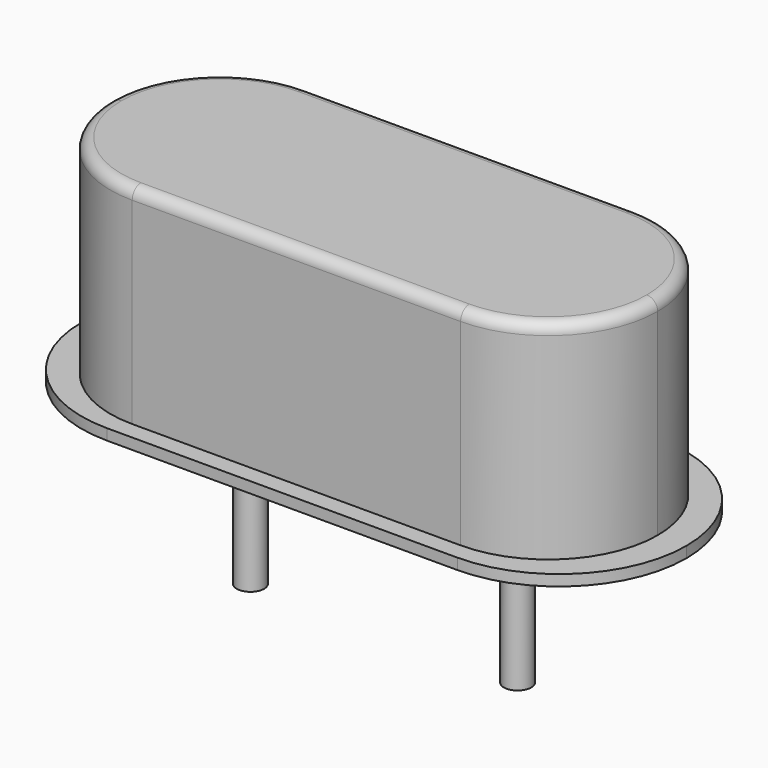
from build123d import *

# Parameters (mm, degrees)
SKETCH_R     = 0.25
PAD_DEPTH    = 3
PAD001_DEPTH = 0.2
PAD002_DEPTH = 4
FILLET_R     = 0.2


with BuildPart() as pad:
    # Sketch → Pad (new body)
    with BuildSketch(Plane.XY.offset(0.1)):
        Circle(SKETCH_R)
        with Locations((4.88, 0)):
            Circle(SKETCH_R)
    extrude(amount=-PAD_DEPTH)


with BuildPart() as pad001:
    # Sketch001 → Pad001 (new body)
    with BuildSketch(Plane.XY.offset(0.1)):
        with BuildLine():
            Line((-0.76, 2.325), (5.64, 2.325))
            ThreePointArc((7.965, 0), (7.284023, 1.644023), (5.64, 2.325))
            ThreePointArc((5.64, -2.325), (7.284023, -1.644023), (7.965, 0))
            Line((5.64, -2.325), (-0.76, -2.325))
            ThreePointArc((-3.085, 0), (-2.404023, -1.644023), (-0.76, -2.325))
            ThreePointArc((-0.76, 2.325), (-2.404023, 1.644023), (-3.085, 0))
        make_face()
    extrude(amount=PAD001_DEPTH)


with BuildPart() as fillet_body:
    # Sketch003 → Pad002 (new body)
    with BuildSketch(Plane.XY.offset(0.1)):
        with BuildLine():
            Line((-0.56, 2), (5.44, 2))
            ThreePointArc((7.44, 0), (6.854214, 1.414214), (5.44, 2))
            ThreePointArc((5.44, -2), (6.854214, -1.414214), (7.44, 0))
            Line((5.44, -2), (-0.56, -2))
            ThreePointArc((-2.56, 0), (-1.974214, -1.414214), (-0.56, -2))
            ThreePointArc((-0.56, 2), (-1.974214, 1.414214), (-2.56, 0))
        make_face()
    extrude(amount=PAD002_DEPTH)

    # Fillet
    fillet_edges = [fillet_body.edges().sort_by_distance(p)[0] for p in [
        (2.44, 2, 4.1),
        (-1.974214, 1.414214, 4.1),
        (-1.974214, -1.414214, 4.1),
        (2.44, -2, 4.1),
        (6.854214, -1.414214, 4.1),
        (6.854214, 1.414214, 4.1),
    ]]
    fillet(fillet_edges, radius=FILLET_R)


solid = Compound([pad.part, pad001.part, fillet_body.part])
